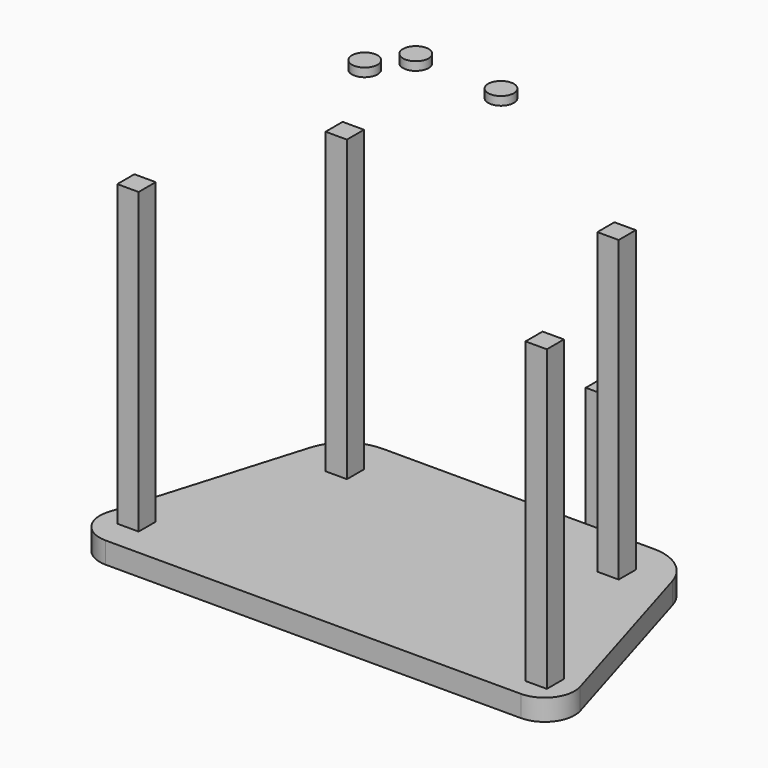
from build123d import *

# Parameters (mm, degrees)
F1_DEPTH = 6.35
F2_W     = 6.35
F2_H     = 6.35
F3_DEPTH = 88.9
F4_R     = 3.81
F5_DEPTH = 2.54
F6_W     = 6.35
F6_H     = 6.35
F7_DEPTH = 38.1


with BuildPart() as f1:
    # F0 (on Top) → F1 (new body)
    with BuildSketch(Plane.XY):
        with BuildLine():
            Line((40.405892, 38.1), (-40.405892, 38.1))
            ThreePointArc((-40.405892, 38.1), (-46.096455, 36.888463), (-50.8, 33.463992))
            Line((-50.8, 33.463992), (-50.8, -38.1))
            Line((-50.8, -38.1), (50.8, -38.1))
            Line((50.8, -38.1), (50.8, 33.463992))
            ThreePointArc((50.8, 33.463992), (46.096455, 36.888463), (40.405892, 38.1))
        make_face()
        with BuildLine():
            Line((-50.8, -38.1), (-50.8, 33.463992))
            ThreePointArc((-50.8, 33.463992), (-52.587307, 30.969154), (-53.786725, 28.14425))
            Line((-53.786725, 28.14425), (-70.226643, -26.655477))
            ThreePointArc((-70.226643, -26.655477), (-68.843952, -34.516712), (-61.711568, -38.1))
            Line((-61.711568, -38.1), (-50.8, -38.1))
        make_face()
        with BuildLine():
            ThreePointArc((53.786725, 28.14425), (52.587307, 30.969154), (50.8, 33.463992))
            Line((50.8, 33.463992), (50.8, -38.1))
            Line((50.8, -38.1), (61.711568, -38.1))
            ThreePointArc((61.711568, -38.1), (68.843952, -34.516712), (70.226643, -26.655477))
            Line((70.226643, -26.655477), (53.786725, 28.14425))
        make_face()
    extrude(amount=F1_DEPTH)

    # F2 (on face) → F3 (join)
    with BuildSketch(Plane.XY.offset(6.35)):
        with Locations((-40.405892, 24.13)):
            Rectangle(F2_W, F2_H)
        with Locations((40.405892, 24.13)):
            Rectangle(F2_W, F2_H)
        with Locations((-61.711568, -26.655477)):
            Rectangle(F2_W, F2_H)
        with Locations((61.711568, -29.21)):
            Rectangle(F2_W, F2_H)
    extrude(amount=F3_DEPTH)


with BuildPart() as f5:
    # F4 (on face) → F5 (new body)
    with BuildSketch(Plane.XY.offset(95.25)):
        with Locations((-48.693627, 60.873587)):
            Circle(F4_R)
        with Locations((-55.952266, 50.975442)):
            Circle(F4_R)
        with Locations((-22.298576, 59.553832)):
            Circle(F4_R)
    extrude(amount=F5_DEPTH)


with BuildPart() as f7:
    # F6 (on Top) → F7 (new body)
    with BuildSketch(Plane.XY):
        with Locations((18.613756, 47.053934)):
            Rectangle(F6_W, F6_H)
    extrude(amount=F7_DEPTH)


solid = Compound([f1.part, f5.part, f7.part])
